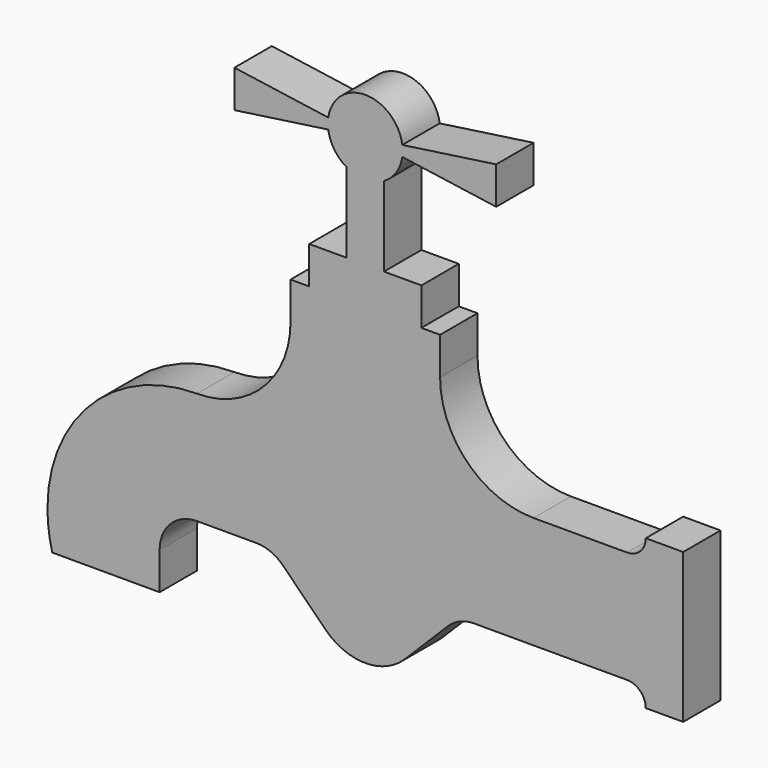
from build123d import *

# Parameters (mm, degrees)
F1_DEPTH = 25


with BuildPart() as f1:
    # F0 (on Front) → F1 (new body)
    with BuildSketch(Plane.XZ):
        with BuildLine():
            Line((-30, 140), (-40, 140))
            Line((-40, 140), (-40, 120))
            ThreePointArc((-40, 120), (-54.644661, 84.644661), (-90, 70))
            ThreePointArc((-90, 70), (-146.568542, 46.568542), (-170, -10))
            ThreePointArc((-170, -10), (-169.362376, -20.080343), (-167.459667, -30))
            Line((-167.459667, -30), (-110, -30))
            Line((-110, -30), (-110, -10))
            ThreePointArc((-110, -10), (-104.142136, 4.142136), (-90, 10))
            Line((-90, 10), (-58.284271, 10))
            ThreePointArc((-58.284271, 10), (-50.630603, 8.477591), (-44.142136, 4.142136))
            Line((-44.142136, 4.142136), (-21.213203, -18.786797))
            ThreePointArc((-21.213203, -18.786797), (0, -27.573593), (21.213203, -18.786797))
            Line((21.213203, -18.786797), (44.142136, 4.142136))
            ThreePointArc((44.142136, 4.142136), (50.630603, 8.477591), (58.284271, 10))
            Line((58.284271, 10), (140, 10))
            ThreePointArc((140, 10), (147.071068, 7.071068), (150, 0))
            Line((150, 0), (170, 0))
            Line((170, 0), (170, 80))
            Line((170, 80), (150, 80))
            ThreePointArc((150, 80), (147.071068, 72.928932), (140, 70))
            Line((140, 70), (90, 70))
            ThreePointArc((90, 70), (54.644661, 84.644661), (40, 120))
            Line((40, 120), (40, 140))
            Line((40, 140), (30, 140))
            Line((30, 140), (-30, 140))
        make_face()
        Polygon((-30, 160), (-30, 140), (30, 140), (30, 160), (10, 160), (-10, 160), align=None)
        with BuildLine():
            Line((-10, 202.679492), (-10, 160))
            Line((-10, 160), (10, 160))
            Line((10, 160), (10, 202.679492))
            ThreePointArc((10, 202.679492), (16.568043, 208.797324), (19.79899, 217.171573))
            ThreePointArc((19.79899, 217.171573), (20, 220), (19.79899, 222.828427))
            ThreePointArc((19.79899, 222.828427), (0, 240), (-19.79899, 222.828427))
            ThreePointArc((-19.79899, 222.828427), (-20, 220), (-19.79899, 217.171573))
            ThreePointArc((-19.79899, 217.171573), (-16.568043, 208.797324), (-10, 202.679492))
        make_face()
        with BuildLine():
            ThreePointArc((19.79899, 222.828427), (20, 220), (19.79899, 217.171573))
            Line((19.79899, 217.171573), (70, 210))
            Line((70, 210), (70, 230))
            Line((70, 230), (19.79899, 222.828427))
        make_face()
        with BuildLine():
            Line((-70, 210), (-19.79899, 217.171573))
            ThreePointArc((-19.79899, 217.171573), (-20, 220), (-19.79899, 222.828427))
            Line((-19.79899, 222.828427), (-70, 230))
            Line((-70, 230), (-70, 210))
        make_face()
    extrude(amount=F1_DEPTH)


solid = f1.part
